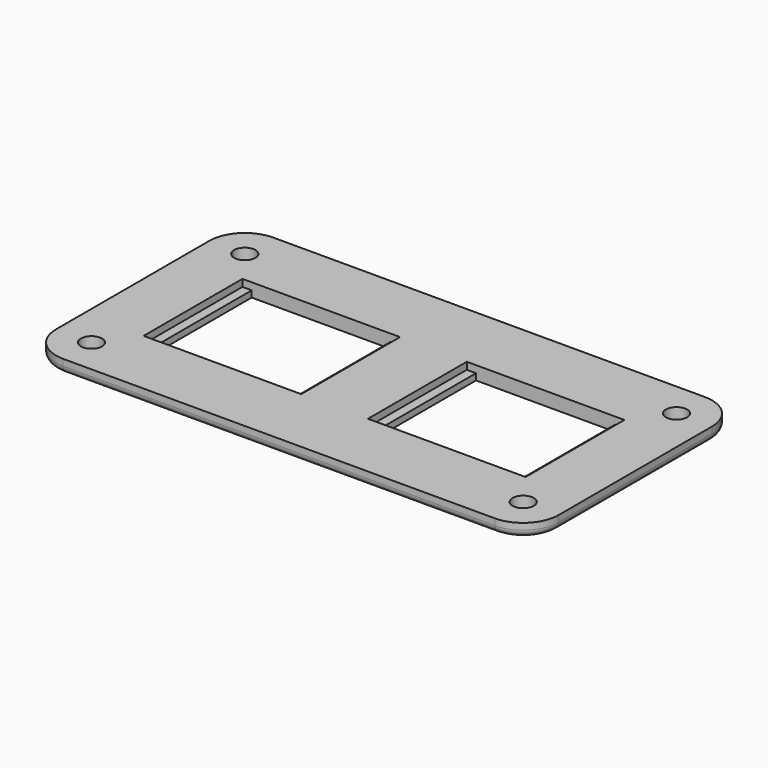
from build123d import *

# Parameters (mm, degrees)
F0_W     = 89.916
F0_H     = 46.99
F0_W_2   = 24.892
F0_H_2   = 22.098
F1_DEPTH = 1.143
F2_W     = 89.916
F2_H     = 46.99
F2_W_2   = 28.194
F2_H_2   = 22.098
F3_DEPTH = 1.27
F4_R     = 6.35
F5_R     = 1.905
F6_DEPTH = 2.413
F7_R     = 1.27


with BuildPart() as f1:
    # F0 (on Top) → F1 (new body)
    with BuildSketch(Plane.XY):
        with Locations((20.066, 0)):
            Rectangle(F0_W, F0_H)
        Rectangle(F0_W_2, F0_H_2, mode=Mode.SUBTRACT)
        with Locations((40.132, 0)):
            Rectangle(F0_W_2, F0_H_2, mode=Mode.SUBTRACT)
    extrude(amount=F1_DEPTH)

    # F2 (on face) → F3 (join)
    with BuildSketch(Plane.XY.offset(1.143)):
        with Locations((20.066, 0)):
            Rectangle(F2_W, F2_H)
        Rectangle(F2_W_2, F2_H_2, mode=Mode.SUBTRACT)
        with Locations((40.132, 0)):
            Rectangle(F2_W_2, F2_H_2, mode=Mode.SUBTRACT)
    extrude(amount=F3_DEPTH)

    # F4
    f4_edges = [f1.edges().sort_by_distance(p)[0] for p in [
        (-24.892, -23.495, 1.2065),
        (-24.892, 23.495, 1.2065),
        (65.024, -23.495, 1.2065),
        (65.024, 23.495, 1.2065),
    ]]
    fillet(f4_edges, radius=F4_R)

    # F5 (on face) → F6 (cut, through all)
    with BuildSketch(Plane.XY.offset(2.413)):
        with Locations((-18.542, 17.145)):
            Circle(F5_R)
        with Locations((-18.542, -17.145)):
            Circle(F5_R)
        with Locations((58.674, -17.145)):
            Circle(F5_R)
        with Locations((58.674, 17.145)):
            Circle(F5_R)
    extrude(amount=-F6_DEPTH, mode=Mode.SUBTRACT)

    # F7
    f7_edges = [f1.edges().sort_by_distance(p)[0] for p in [
        (-23.032128, 21.635128, 0),
    ]]
    fillet(f7_edges, radius=F7_R)


solid = f1.part
